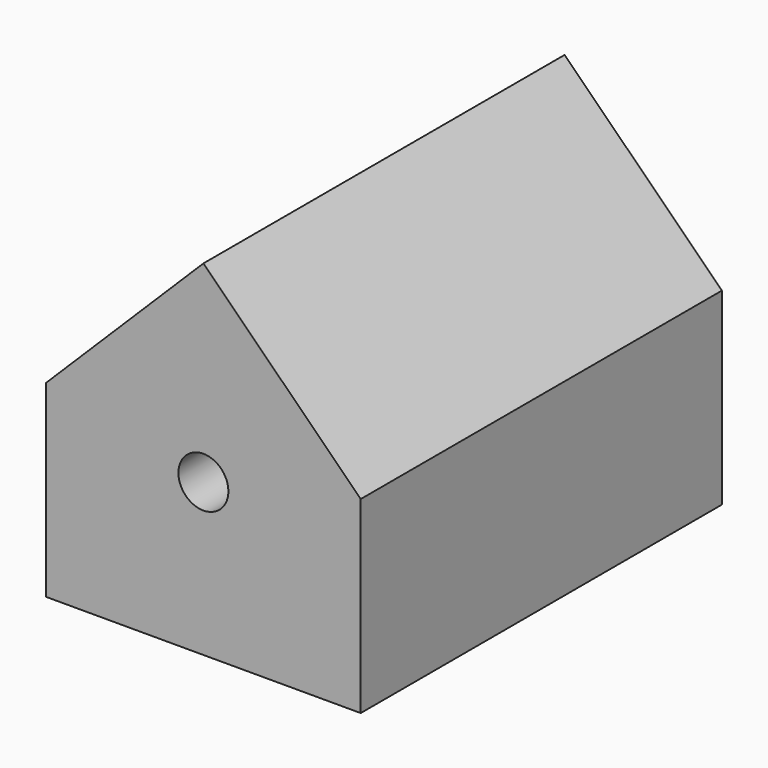
from build123d import *

# Parameters (mm, degrees)
F0_W     = 88.503092
F0_H     = 53.005006
F0_R     = 7.028535
F1_DEPTH = 127


with BuildPart() as f1:
    # F0 (on Front) → F1 (new body)
    with BuildSketch(Plane.XZ):
        Rectangle(F0_W, F0_H)
        with Locations((0, 16.299244)):
            Circle(F0_R, mode=Mode.SUBTRACT)
        Polygon((-44.251546, 26.502503), (44.251546, 26.502503), (0, 70.466429), align=None)
    extrude(amount=F1_DEPTH)


solid = f1.part
